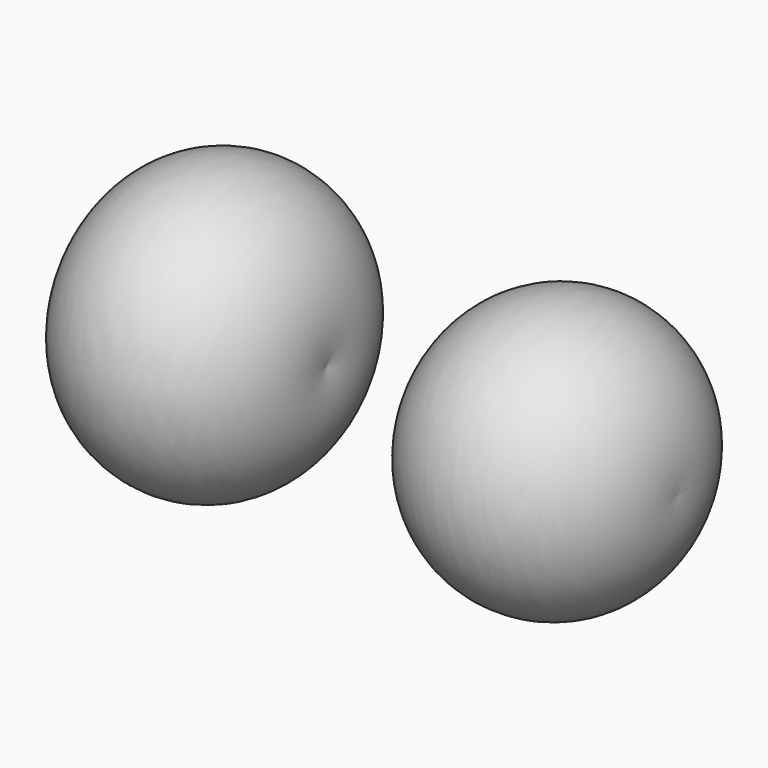
from build123d import *


with BuildPart() as f1:
    # F0 (on Top) → F1 (revolve)
    with BuildSketch(Plane.XY):
        with BuildLine():
            Line((0, 0), (-37.523326, 0))
            ThreePointArc((-37.523326, 0), (-18.761663, -23.746625), (0, 0))
        make_face()
    revolve(axis=Axis((-18.761663, 0, 0), (1, 0, 0)))


with BuildPart() as f3:
    # F2 (on Top) → F3 (revolve)
    with BuildSketch(Plane.XY):
        with BuildLine():
            Line((18.62428, 0), (58.735568, 0))
            ThreePointArc((58.735568, 0), (38.679924, 22.452795), (18.62428, 0))
        make_face()
    revolve(axis=Axis((38.679924, 0, 0), (-1, 0, 0)))


solid = Compound([f1.part, f3.part])
